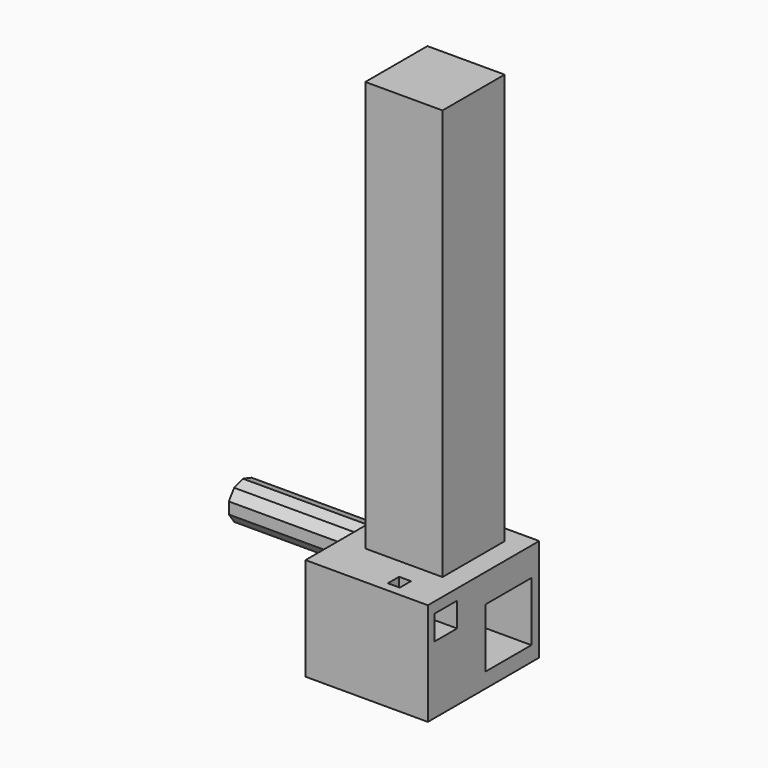
from build123d import *

# Parameters (mm, degrees)
F0_W      = 151.3425782323
F0_H      = 172.1224486828
F1_DEPTH  = 127
F3_W      = 34.7741246223
F3_H      = 30.3159058094
F4_DEPTH  = 50.8
F5_W      = 14.7121287882
F5_H      = 17.3870623112
F6_DEPTH  = 25.4
F7_R      = 34.2587493425
F8_DEPTH  = 76.2
F10_DEPTH = 177.8
F13_DEPTH = 49.276
F14_W     = 71.1912401021
F14_H     = 73.1580201536
F15_DEPTH = 189.385448
F16_W     = 95.4910255969
F16_H     = 96.0185993463
F17_DEPTH = 508
F18_R     = 22.6550220724
F19_DEPTH = 25.4
F20_R     = 12.5097530491
F21_DEPTH = 25.4
F22_R     = 13.338874827
F23_DEPTH = 25.4
F24_R     = 6.9241134555
F25_DEPTH = 25.4


with BuildPart() as f1:
    # F0 (on Top) → F1 (new body)
    with BuildSketch(Plane.XY):
        with Locations((3.3693946898, -86.0612243414)):
            Rectangle(F0_W, F0_H)
    extrude(amount=F1_DEPTH)

    # F3 (on face) → F4 (cut)
    with BuildSketch(Plane.YZ.offset(79.0406838059)):
        with Locations((-144.2410051823, 98.4970331192)):
            Rectangle(F3_W, F3_H)
    extrude(amount=-F4_DEPTH, mode=Mode.SUBTRACT)

    # F5 (on face) → F6 (cut)
    with BuildSketch(Plane.XY.offset(127)):
        with Locations((27.4437833577, -151.5970826149)):
            Rectangle(F5_W, F5_H)
    extrude(amount=-F6_DEPTH, mode=Mode.SUBTRACT)

    # F7 (on face) → F8 (cut)
    with BuildSketch(Plane(origin=(0, 0, 0), x_dir=(-1, 0, 0), z_dir=(0, 1, 0))):
        with Locations((-6.7130560055, 86.9056582451)):
            Circle(F7_R)
    extrude(amount=-F8_DEPTH, mode=Mode.SUBTRACT)

    # F9 (on face) → F10 (join)
    with BuildSketch(Plane(origin=(-72.3018944263, 0, 0), x_dir=(0, -1, 0), z_dir=(-1, 0, 0))):
        Polygon((68.4512555599, 76.6869447389), (68.4512555599, 90.8828713736), (60.1070992414, 102.3676172721), (46.6059707105, 106.7543998531), (33.1048421797, 102.3676172721), (24.7606858611, 90.8828713736), (24.7606858611, 76.6869447389), (33.1048421797, 65.2021988404), (46.6059707105, 60.8154162594), (60.1070992414, 65.2021988404), align=None)
    extrude(amount=F10_DEPTH)

    # F12 (on face) → F13 (join)
    with BuildSketch(Plane(origin=(0, -76.2, 0), x_dir=(-1, 0, 0), z_dir=(0, 1, 0))):
        Polygon((4.7714961833, 79.0930910356), (10.800817036, 87.215729212), (10.9042731407, 97.3310274144), (5.0423477816, 105.5752855359), (-4.5459027936, 108.7994771861), (-14.1980927578, 105.7720707409), (-20.2274136105, 97.6494325645), (-20.3308697152, 87.5341343621), (-14.4689443561, 79.2898762406), (-4.8806937809, 76.0656845904), align=None)
    extrude(amount=F13_DEPTH)

    # F14 (on face) → F15 (cut)
    with BuildSketch(Plane.YZ.offset(79.0406838059)):
        with Locations((-47.7073919028, 55.1417870447)):
            Rectangle(F14_W, F14_H)
    extrude(amount=-F15_DEPTH, mode=Mode.SUBTRACT)

    # F16 (on face) → F17 (join)
    with BuildSketch(Plane.XY.offset(127)):
        with Locations((5.4796915501, -69.1788261756)):
            Rectangle(F16_W, F16_H)
    extrude(amount=F17_DEPTH)

    # F18 (on face) → F19 (cut)
    with BuildSketch(Plane(origin=(0, -21.1695265025, 0), x_dir=(-1, 0, 0), z_dir=(0, 1, 0))):
        with Locations((-23.0861343443, 237.3967021704)):
            Circle(F18_R)
    extrude(amount=-F19_DEPTH, mode=Mode.SUBTRACT)

    # F20 (on face) → F21 (join)
    with BuildSketch(Plane(origin=(0, -46.5695265025, 0), x_dir=(-1, 0, 0), z_dir=(0, 1, 0))):
        with Locations((-23.0861343443, 237.3967021704)):
            Circle(F20_R)
    extrude(amount=-F21_DEPTH)

    # F22 (on face) → F23 (join)
    with BuildSketch(Plane(origin=(0, -46.5695265025, 0), x_dir=(-1, 0, 0), z_dir=(0, 1, 0))):
        with Locations((-23.0861343443, 237.3967021704)):
            Circle(F22_R)
    extrude(amount=F23_DEPTH)

    # F24 (on face) → F25 (join)
    with BuildSketch(Plane(origin=(0, -21.1695265025, 0), x_dir=(-1, 0, 0), z_dir=(0, 1, 0))):
        with Locations((-23.0861343443, 237.3967021704)):
            Circle(F24_R)
    extrude(amount=F25_DEPTH)


solid = f1.part
